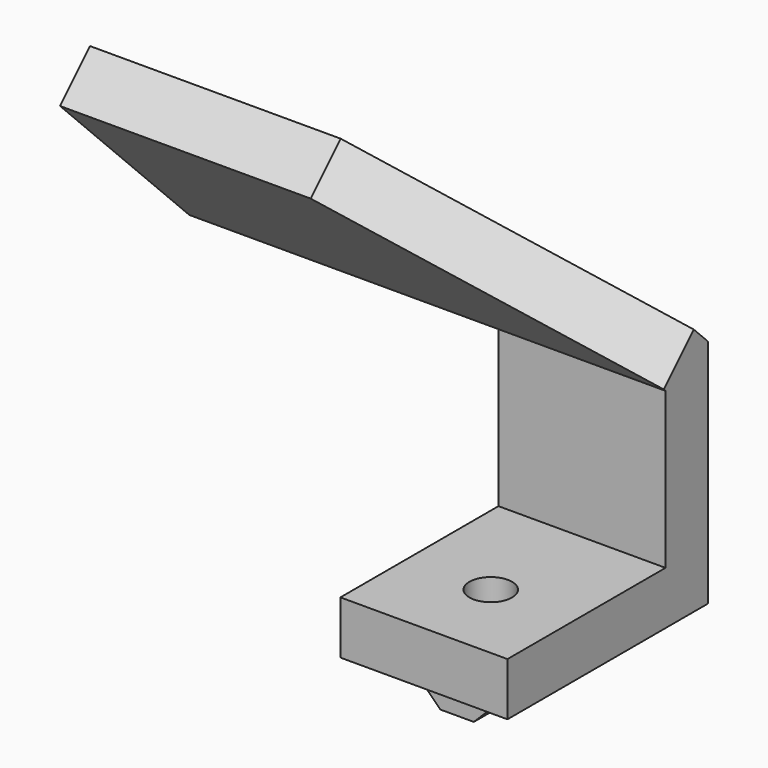
from build123d import *

# Parameters (mm, degrees)
PAD028_DEPTH         = 57
SKETCH078_W          = 50
SKETCH078_H          = 25
POCKET021_DEPTH      = 30.001
POCKET021_DEPTH_BACK = -0.001
CHAMFER003_SIZE      = 27
SKETCH079_R          = 2.55
HOLE016_DEPTH        = 6.351
PAD029_DEPTH         = 5
SKETCH080_R          = 2.1
HOLE017_DEPTH        = 4.001
FILLET006_R          = 0.2


with BuildPart() as body033:
    # Sketch077 → Pad028 (new body)
    with BuildSketch(Plane.YZ):
        Polygon((0, 0), (0, 6.35), (23.65, 6.35), (23.65, 25), (4.296669, 44.353331), (8.786797, 48.84346), (30, 27.630256), (30, 0), align=None)
    extrude(amount=-PAD028_DEPTH)

    # Sketch078 → Pocket021 (cut, two sides)
    with BuildSketch(Plane.XZ) as pocket021_sk:
        with Locations((-45, 12.5)):
            Rectangle(SKETCH078_W, SKETCH078_H)
    extrude(amount=-POCKET021_DEPTH, mode=Mode.SUBTRACT)
    extrude(pocket021_sk.sketch, amount=-POCKET021_DEPTH_BACK, mode=Mode.SUBTRACT)

    # Chamfer003
    chamfer003_edges = [body033.edges().sort_by_distance(p)[0] for p in [
        (0, 6.541733, 46.598396),
    ]]
    chamfer(chamfer003_edges, length=CHAMFER003_SIZE)

    # Sketch079 → Hole016 (cut, through all)
    with BuildSketch(Plane.XY.offset(6.35)):
        with Locations((-10, 10)):
            Circle(SKETCH079_R)
    extrude(amount=-HOLE016_DEPTH, mode=Mode.SUBTRACT)


with BuildPart() as t_nut_m5:
    # Sketch081 → Pad029 (new body, symmetric)
    with BuildSketch(Plane.XZ):
        Polygon((-3, -1), (-3, 0), (3, 0), (3, -1), (5, -1), (2, -4), (-2, -4), (-5, -1), align=None)
    extrude(amount=PAD029_DEPTH, both=True)

    # Sketch080 → Hole017 (cut, through all)
    with BuildSketch(Plane.XY):
        Circle(SKETCH080_R)
    extrude(amount=-HOLE017_DEPTH, mode=Mode.SUBTRACT)

    # Fillet006
    fillet006_edges = [t_nut_m5.edges().sort_by_distance(p)[0] for p in [
        (-5, 0, -1),
        (5, 0, -1),
    ]]
    fillet(fillet006_edges, radius=FILLET006_R)


with BuildPart() as t_nut_m5_1:
    # Body031 placement: moved
    add(t_nut_m5.part.moved(Location((-9.95, 9.9, -0.85))))


solid = Compound([body033.part, t_nut_m5_1.part])
